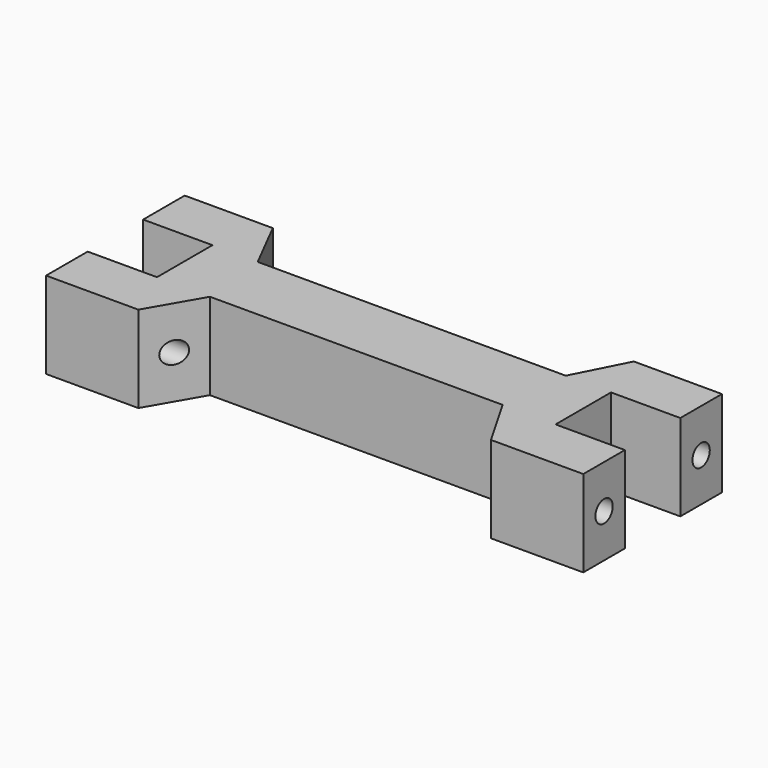
from build123d import *

# Parameters (mm, degrees)
F1_DEPTH = 10
F2_R     = 1.25
F3_DEPTH = 62.001


with BuildPart() as f1:
    # F0 (on Top) → F1 (new body)
    with BuildSketch(Plane.XY):
        Polygon((31, 4), (31, 10), (20.835134, 10), (17.777494, 4), (0, 4), (-17.777494, 4), (-20.835134, 10), (-31, 10), (-31, 4), (-23, 4), (-23, -4), (-31, -4), (-31, -10), (-20.350992, -10), (-16.88689, -4), (0, -4), (16.88689, -4), (20.350992, -10), (31, -10), (31, -4), (23, -4), (23, 4), align=None)
    extrude(amount=F1_DEPTH)

    # F2 (on face) → F3 (cut, through all)
    with BuildSketch(Plane.YZ.offset(31)):
        with Locations((-7, 5)):
            Circle(F2_R)
        with Locations((7, 5)):
            Circle(F2_R)
    extrude(amount=-F3_DEPTH, mode=Mode.SUBTRACT)


solid = f1.part
